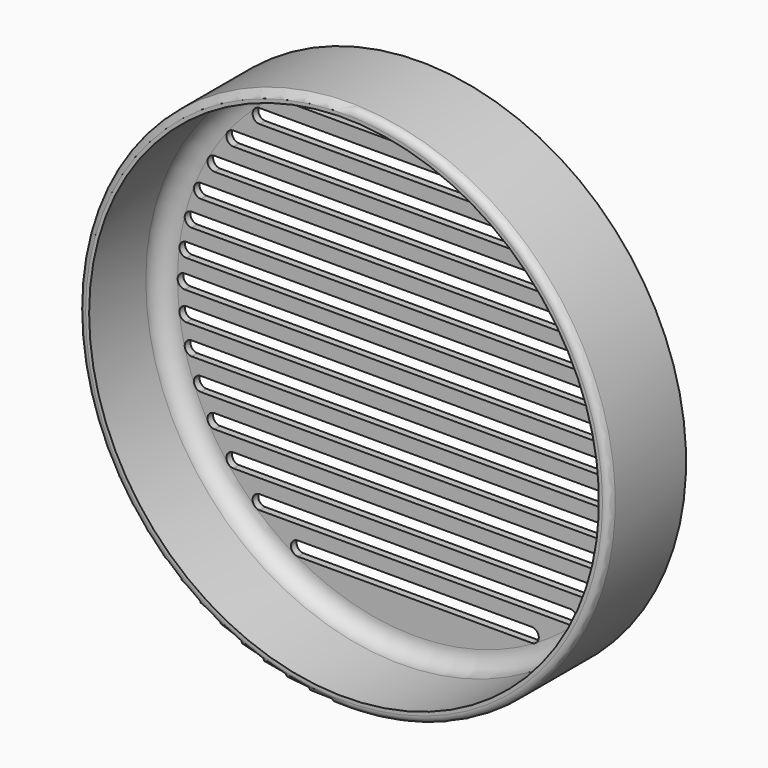
from build123d import *

# Parameters (mm, degrees)
FILLET_R     = 5
POCKET_DEPTH = 5
FILLET003_R  = 2


with BuildPart() as part:
    # Sketch001 → Revolution001 (revolve)
    with BuildSketch(Plane.XY):
        Polygon((0, 0), (-72, 0), (-72, -25), (-75, -25), (-75, 0), (-75, 2), (0, 2), align=None)
    revolve(axis=Axis((0, 0, 0), (0, 1, 0)))

    # Fillet
    fillet_edges = [part.edges().sort_by_distance(p)[0] for p in [
        (72, 0, 0),
    ]]
    fillet(fillet_edges, radius=FILLET_R)

    # Sketch002 (on Face1 of Fillet) → Pocket (cut)
    with BuildSketch(Plane.XZ):
        with BuildLine():
            ThreePointArc((-65, 2), (-67, 0), (-65, -2))
            Line((-65, -2), (65, -2))
            ThreePointArc((65, -2), (67, 0), (65, 2))
            Line((-65, 2), (65, 2))
        make_face()
        with BuildLine():
            ThreePointArc((-64.505814, 10), (-66.505814, 8), (-64.505814, 6))
            Line((-64.505814, 6), (64.505814, 6))
            ThreePointArc((64.505814, 6), (66.505814, 8), (64.505814, 10))
            Line((-64.505814, 10), (64.505814, 10))
        make_face()
        with BuildLine():
            ThreePointArc((-63, 18), (-65, 16), (-63, 14))
            Line((-63, 14), (63, 14))
            ThreePointArc((63, 14), (65, 16), (63, 18))
            Line((-63, 18), (63, 18))
        make_face()
        with BuildLine():
            ThreePointArc((-60.406953, 26), (-62.406953, 24), (-60.406953, 22))
            Line((-60.406953, 22), (60.406953, 22))
            ThreePointArc((60.406953, 22), (62.406953, 24), (60.406953, 26))
            Line((-60.406953, 26), (60.406953, 26))
        make_face()
        with BuildLine():
            ThreePointArc((-56.577381, 34), (-58.577381, 32), (-56.577381, 30))
            Line((-56.577381, 30), (56.577381, 30))
            ThreePointArc((56.577381, 30), (58.577381, 32), (56.577381, 34))
            Line((-56.577381, 34), (56.577381, 34))
        make_face()
        with BuildLine():
            ThreePointArc((-51.234754, 42), (-53.234754, 40), (-51.234754, 38))
            Line((-51.234754, 38), (51.234754, 38))
            ThreePointArc((51.234754, 38), (53.234754, 40), (51.234754, 42))
            Line((-51.234754, 42), (51.234754, 42))
        make_face()
        with BuildLine():
            ThreePointArc((-43.829214, 50), (-45.829214, 48), (-43.829214, 46))
            Line((-43.829214, 46), (43.829214, 46))
            ThreePointArc((43.829214, 46), (45.829214, 48), (43.829214, 50))
            Line((-43.829214, 50), (43.829214, 50))
        make_face()
        with BuildLine():
            ThreePointArc((-33, 58), (-35, 56), (-33, 54))
            Line((-33, 54), (33, 54))
            ThreePointArc((33, 54), (35, 56), (33, 58))
            Line((-33, 58), (33, 58))
        make_face()
        with BuildLine():
            ThreePointArc((-64.505814, -6), (-66.505814, -8), (-64.505814, -10))
            Line((-64.505814, -10), (64.505814, -10))
            ThreePointArc((64.505814, -10), (66.505814, -8), (64.505814, -6))
            Line((-64.505814, -6), (64.505814, -6))
        make_face()
        with BuildLine():
            ThreePointArc((-63, -14), (-65, -16), (-63, -18))
            Line((-63, -18), (63, -18))
            ThreePointArc((63, -18), (65, -16), (63, -14))
            Line((-63, -14), (63, -14))
        make_face()
        with BuildLine():
            ThreePointArc((-60.406953, -22), (-62.406953, -24), (-60.406953, -26))
            Line((-60.406953, -26), (60.406953, -26))
            ThreePointArc((60.406953, -26), (62.406953, -24), (60.406953, -22))
            Line((-60.406953, -22), (60.406953, -22))
        make_face()
        with BuildLine():
            ThreePointArc((-56.577381, -30), (-58.577381, -32), (-56.577381, -34))
            Line((-56.577381, -34), (56.577381, -34))
            ThreePointArc((56.577381, -34), (58.577381, -32), (56.577381, -30))
            Line((-56.577381, -30), (56.577381, -30))
        make_face()
        with BuildLine():
            ThreePointArc((-51.234754, -38), (-53.234754, -40), (-51.234754, -42))
            Line((-51.234754, -42), (51.234754, -42))
            ThreePointArc((51.234754, -42), (53.234754, -40), (51.234754, -38))
            Line((-51.234754, -38), (51.234754, -38))
        make_face()
        with BuildLine():
            ThreePointArc((-43.829214, -46), (-45.829214, -48), (-43.829214, -50))
            Line((-43.829214, -50), (43.829214, -50))
            ThreePointArc((43.829214, -50), (45.829214, -48), (43.829214, -46))
            Line((-43.829214, -46), (43.829214, -46))
        make_face()
        with BuildLine():
            ThreePointArc((-33, -54), (-35, -56), (-33, -58))
            Line((-33, -58), (33, -58))
            ThreePointArc((33, -58), (35, -56), (33, -54))
            Line((-33, -54), (33, -54))
        make_face()
    extrude(amount=-POCKET_DEPTH, mode=Mode.SUBTRACT)

    # Fillet003
    fillet003_edges = [part.edges().sort_by_distance(p)[0] for p in [
        (75, -25, 0),
    ]]
    fillet(fillet003_edges, radius=FILLET003_R)


solid = part.part
